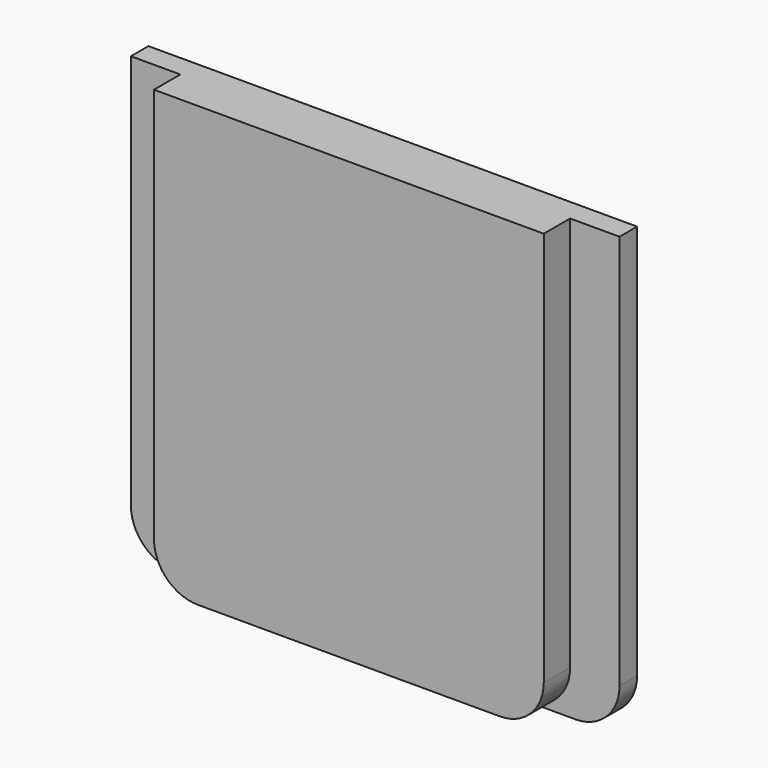
from build123d import *

# Parameters (mm, degrees)
F1_DEPTH = 1
F3_DEPTH = 1.5


with BuildPart() as f1:
    # F0 (on Front) → F1 (new body)
    with BuildSketch(Plane.XZ):
        with BuildLine():
            ThreePointArc((0, 2), (0.5857864376, 0.5857864376), (2, 0))
            Line((2, 0), (20.25, 0))
            ThreePointArc((20.25, 0), (21.6642135624, 0.5857864376), (22.25, 2))
            Line((22.25, 2), (22.25, 20))
            Line((22.25, 20), (0, 20))
            Line((0, 20), (0, 2))
        make_face()
    extrude(amount=F1_DEPTH)

    # F2 (on face) → F3 (join)
    with BuildSketch(Plane.XZ.offset(1)):
        with BuildLine():
            Line((20, 20), (2.25, 20))
            Line((2.25, 20), (2.25, 2))
            ThreePointArc((2.25, 2), (2.8357864376, 0.5857864376), (4.25, 0))
            Line((4.25, 0), (18, 0))
            ThreePointArc((18, 0), (19.4142135624, 0.5857864376), (20, 2))
            Line((20, 2), (20, 20))
        make_face()
    extrude(amount=F3_DEPTH)


solid = f1.part
